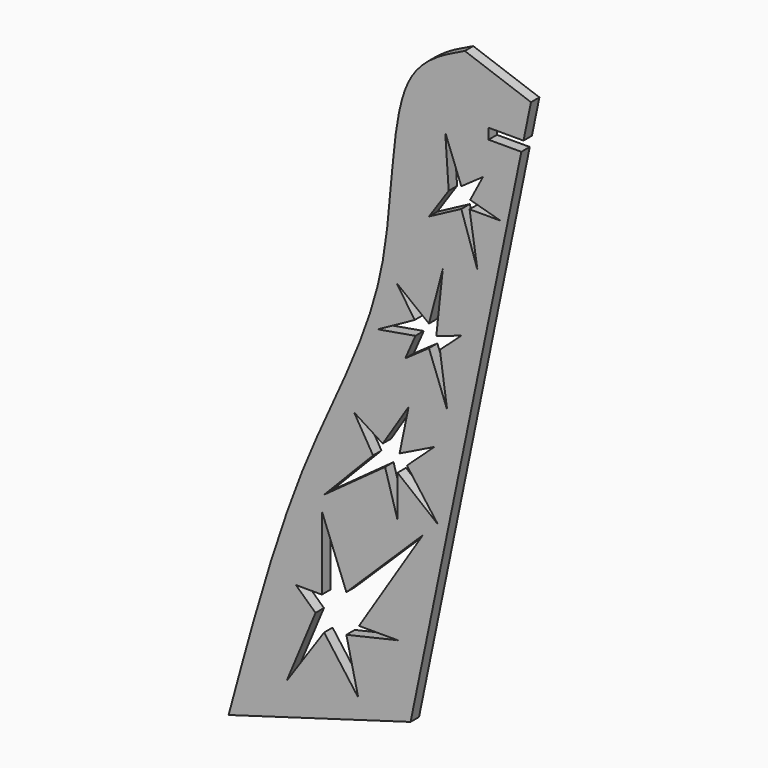
from build123d import *

# Parameters (mm, degrees)
F1_DEPTH = 3
F2_W     = 20
F2_H     = 3
F3_DEPTH = 25


with BuildPart() as f1:
    # F0 (on Front) → F1 (new body)
    with BuildSketch(Plane.XZ):
        with BuildLine():
            Line((-50.5878934722, 155.886335863), (-69.4227617458, 162.6129796857))
            add(Edge.make_bspline(
                [(-69.4227617458, 162.6129796857), (-75.629299587, 159.7091182866), (-91.5619099649, 152.254705948), (-88.2089050529, 96.1905885787), (-117.4769375663, 45.5756929764), (-130.0592963757, -1.1270613909), (-136.6891999726, -25.73570305)],
                knots=[0, 0, 0, 0, 0.1616006003, 0.414839878, 0.6916670986, 1, 1, 1, 1], degree=3))
            Line((-136.6891999726, -25.73570305), (-84.8672423278, -10.6217007059))
            Line((-84.8672423278, -10.6217007059), (-50.5878934722, 155.886335863))
        make_face()
        Polygon((-117.5276218915, 13.0807881749), (-110.1356736386, 13.0807881749), (-110.1356736386, 34.0246291405), (-103.1543902123, 15.9554307855), (-81.3892186621, 37.3099384404), (-99.563014685, 8.6714058077), (-88.4750997562, 8.6714058077), (-103.1543902123, 5.2781788206), (-99.7717275786, -9.3554096498), (-109.482120264, 3.8080944782), (-120.1593759541, -11.7971242303), (-111.9461054985, 7.9147315687), align=None, mode=Mode.SUBTRACT)
        Polygon((-109.482120264, 38.3365986443), (-95.5571169967, 52.7098247356), (-100.9470961058, 61.7444239131), (-92.8004325941, 56.5746129165), (-85.4258511347, 68.1955858554), (-88.0052784585, 55.6663111316), (-78.1039140189, 60.5124331585), (-85.9065243045, 53.3258201129), (-77.0772542806, 41.4165755308), (-88.5758335704, 50.6565061903), (-88.5758335704, 38.7472616083), (-92.128737954, 50.9292406958), align=None, mode=Mode.SUBTRACT)
        Polygon((-94.1762208009, 84.7693657077), (-83.7042965928, 90.5186565167), (-88.8375929558, 98.1159334577), (-79.6346020327, 90.9293194807), (-75.6963580848, 105.9185428119), (-77.5443451481, 88.4653379715), (-70.4243435526, 90.9293194807), (-76.5176849441, 85.385361085), (-74.4643650019, 71.0121354594), (-79.6346020327, 84.7693657077), (-86.3736114466, 80.0467341713), (-83.4989679048, 86.6173518396), align=None, mode=Mode.SUBTRACT)
        Polygon((-75.0010456618, 140.4010687484), (-70.4243435526, 128.3693922258), (-64.2680210063, 132.6859606004), (-67.8939366249, 125.7794474757), (-59.2607996428, 123.362169931), (-68.0666003378, 123.362169931), (-65.8219834791, 108.858497212), (-70.4243435526, 122.6715160108), (-79.6346020327, 117.7845689298), (-74.0220673384, 126.0610086418), align=None, mode=Mode.SUBTRACT)
    extrude(amount=F1_DEPTH)

    # F2 (on Front) → F3 (cut)
    with BuildSketch(Plane.XZ):
        with Locations((-52.6606052475, 144.0633237362)):
            Rectangle(F2_W, F2_H)
    extrude(amount=F3_DEPTH, mode=Mode.SUBTRACT)


solid = f1.part
